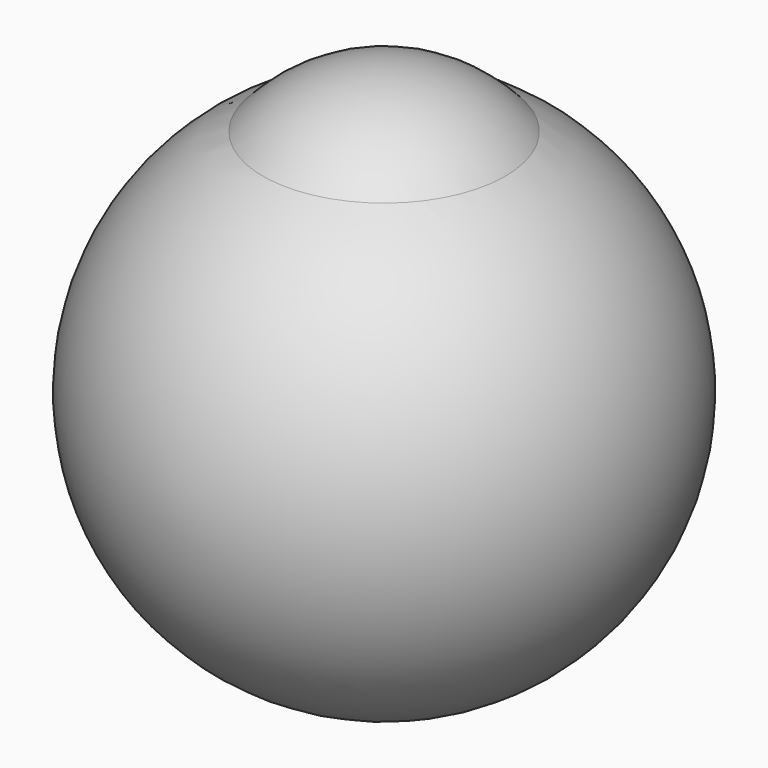
from build123d import *


with BuildPart() as f1:
    # F0 (on Top) → F1 (revolve)
    with BuildSketch(Plane.XY):
        with BuildLine():
            Line((0, -20), (0, 20))
            ThreePointArc((0, 20), (-20, 0), (0, -20))
        make_face()
    revolve(axis=Axis((0, 0, 0), (0, -1, 0)))

    # F3 (on offset) → F4 (revolve)
    with BuildSketch(Plane.XY.offset(9.4)):
        with BuildLine():
            Line((0, -12.5), (0, 12.5))
            ThreePointArc((0, 12.5), (-12.5, 0), (0, -12.5))
        make_face()
    revolve(axis=Axis((0, 0, 9.4), (0, -1, 0)))


solid = f1.part
